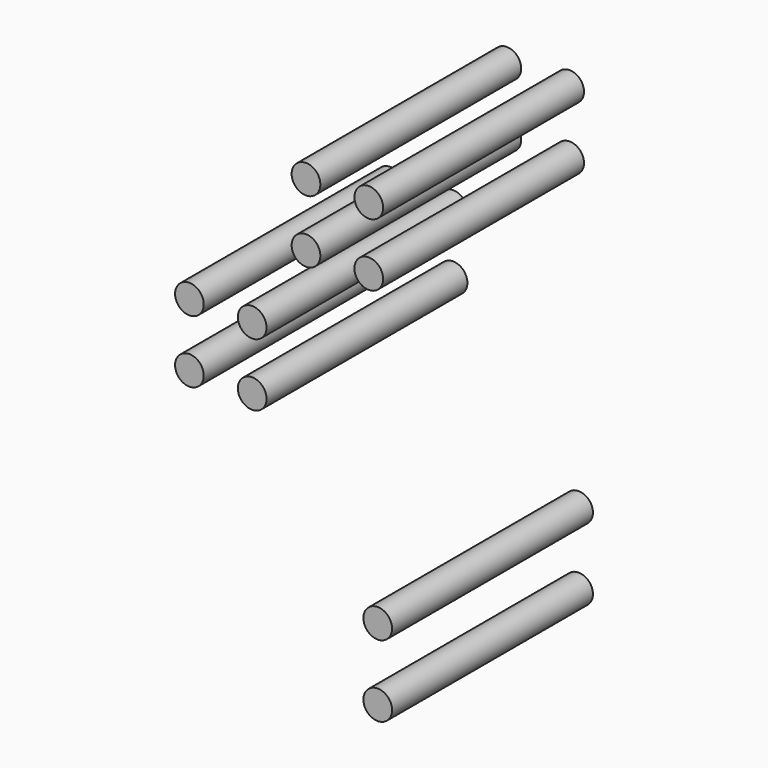
from build123d import *

# Parameters (mm, degrees)
CYLINDER020_R          = 1.6
CYLINDER020_DEPTH      = 28
CYLINDER020_ROLL_ANGLE = 90
CYLINDER023_R          = 1.6
CYLINDER023_DEPTH      = 28
CYLINDER023_ROLL_ANGLE = 90
CYLINDER024_R          = 1.6
CYLINDER024_DEPTH      = 28
CYLINDER024_ROLL_ANGLE = 90
CYLINDER019_R          = 1.6
CYLINDER019_DEPTH      = 28
CYLINDER019_ROLL_ANGLE = 90
CYLINDER021_R          = 1.6
CYLINDER021_DEPTH      = 28
CYLINDER021_ROLL_ANGLE = 90
CYLINDER022_R          = 1.6
CYLINDER022_DEPTH      = 28
CYLINDER022_ROLL_ANGLE = 90


with BuildPart() as cylinder020:
    # Cylinder020 → Cylinder020 (new body)
    with BuildSketch(Plane.XY):
        Circle(CYLINDER020_R)
    extrude(amount=CYLINDER020_DEPTH)


with BuildPart() as cylinder020_1:
    # Cylinder020 roll: moved
    add(cylinder020.part.rotate(Axis((0, 0, 0), (1, 0, 0)), CYLINDER020_ROLL_ANGLE))


with BuildPart() as cylinder020_2:
    # Cylinder020 placement: moved
    add(cylinder020_1.part.moved(Location((47, 20, -51))))


with BuildPart() as cylinder023:
    # Cylinder023 → Cylinder023 (new body)
    with BuildSketch(Plane.XY):
        Circle(CYLINDER023_R)
    extrude(amount=CYLINDER023_DEPTH)


with BuildPart() as cylinder023_1:
    # Cylinder023 roll: moved
    add(cylinder023.part.rotate(Axis((0, 0, 0), (1, 0, 0)), CYLINDER023_ROLL_ANGLE))


with BuildPart() as cylinder023_2:
    # Cylinder023 placement: moved
    add(cylinder023_1.part.moved(Location((55, 20, -17))))


with BuildPart() as cylinder024:
    # Cylinder024 → Cylinder024 (new body)
    with BuildSketch(Plane.XY):
        Circle(CYLINDER024_R)
    extrude(amount=CYLINDER024_DEPTH)


with BuildPart() as cylinder024_1:
    # Cylinder024 roll: moved
    add(cylinder024.part.rotate(Axis((0, 0, 0), (1, 0, 0)), CYLINDER024_ROLL_ANGLE))


with BuildPart() as cylinder024_2:
    # Cylinder024 placement: moved
    add(cylinder024_1.part.moved(Location((55, 20, -10))))


with BuildPart() as cylinder019:
    # Cylinder019 → Cylinder019 (new body)
    with BuildSketch(Plane.XY):
        Circle(CYLINDER019_R)
    extrude(amount=CYLINDER019_DEPTH)


with BuildPart() as cylinder019_1:
    # Cylinder019 roll: moved
    add(cylinder019.part.rotate(Axis((0, 0, 0), (1, 0, 0)), CYLINDER019_ROLL_ANGLE))


with BuildPart() as cylinder019_2:
    # Cylinder019 placement: moved
    add(cylinder019_1.part.moved(Location((48, 20, -10))))


with BuildPart() as cylinder021:
    # Cylinder021 → Cylinder021 (new body)
    with BuildSketch(Plane.XY):
        Circle(CYLINDER021_R)
    extrude(amount=CYLINDER021_DEPTH)


with BuildPart() as cylinder021_1:
    # Cylinder021 roll: moved
    add(cylinder021.part.rotate(Axis((0, 0, 0), (1, 0, 0)), CYLINDER021_ROLL_ANGLE))


with BuildPart() as cylinder021_2:
    # Cylinder021 placement: moved
    add(cylinder021_1.part.moved(Location((48, 20, -17))))


with BuildPart() as fusion055:
    # Fusion055 base: copy of Cylinder021
    add(cylinder021_2.part)

    # Fusion055: union Cylinder023, Cylinder024, Cylinder019
    add(cylinder023_2.part)
    add(cylinder024_2.part)
    add(cylinder019_2.part)


with BuildPart() as fusion056:
    # Fusion056 base: copy of Cylinder021
    add(cylinder021_2.part)

    # Fusion056: union Cylinder023, Cylinder024, Cylinder019
    add(cylinder023_2.part)
    add(cylinder024_2.part)
    add(cylinder019_2.part)


with BuildPart() as fusion056_1:
    # Fusion056 placement: moved
    add(fusion056.part.moved(Location((13, 0, -16))))


with BuildPart() as fusion059:
    # Cylinder022 → Cylinder022 (new body)
    with BuildSketch(Plane.XY):
        Circle(CYLINDER022_R)
    extrude(amount=CYLINDER022_DEPTH)


with BuildPart() as fusion059_1:
    # Cylinder022 roll: moved
    add(fusion059.part.rotate(Axis((0, 0, 0), (1, 0, 0)), CYLINDER022_ROLL_ANGLE))


with BuildPart() as fusion059_2:
    # Cylinder022 placement: moved
    add(fusion059_1.part.moved(Location((47, 20, -59))))

    # Fusion059: union Cylinder020, Fusion055, Fusion056
    add(cylinder020_2.part)
    add(fusion055.part)
    add(fusion056_1.part)


with BuildPart() as mount_holes_bottom_right:
    # Part__Mirroring001: instance of Fusion059
    add(fusion059_2.part.mirror(Plane(origin=(0, 0, 0), x_dir=(0, -1, 0), z_dir=(1, 0, 0))))


with BuildPart() as mount_holes_bottom_right_1:
    # Part__Mirroring001 placement: moved
    add(mount_holes_bottom_right.part.moved(Location((30, 0, 0))))


solid = mount_holes_bottom_right_1.part
